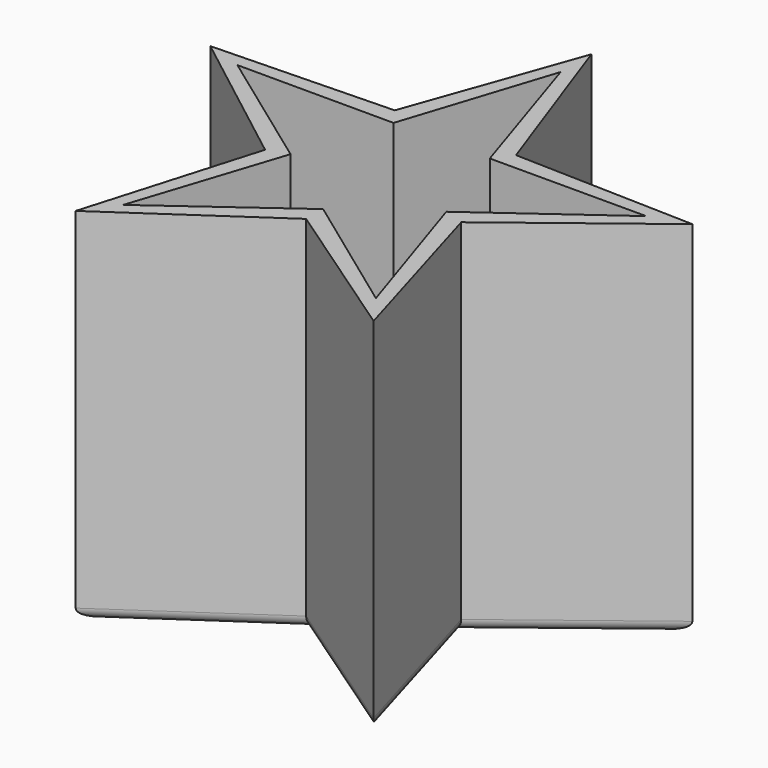
from build123d import *

# Parameters (mm, degrees)
F1_DEPTH = 50.8
F3_DEPTH = 10.16
F4_R     = 3.175


with BuildPart() as f1:
    # F0 (on Top) → F1 (new body, symmetric)
    with BuildSketch(Plane.XY):
        Polygon((13.549365, 18.649101), (0, 60.501583), (-13.549365, 18.649101), (-57.540424, 18.696017), (-21.923333, -7.123323), (-35.561938, -48.946809), (0, -23.051556), (35.561938, -48.946809), (21.923333, -7.123323), (57.540424, 18.696017), align=None)
        Polygon((67.841942, 22.043183), (17.062389, 23.484363), (0, 71.333239), (-17.062389, 23.484363), (-67.841942, 22.043183), (-27.607525, -8.970229), (-41.928626, -57.709802), (0, -29.028269), (41.928626, -57.709802), (27.607525, -8.970229), align=None)
        Polygon((-13.549365, 18.649101), (0, 60.501583), (13.549365, 18.649101), (57.540424, 18.696017), (21.923333, -7.123323), (35.561938, -48.946809), (0, -23.051556), (-35.561938, -48.946809), (-21.923333, -7.123323), (-57.540424, 18.696017), align=None, mode=Mode.SUBTRACT)
    extrude(amount=F1_DEPTH, both=True)

    # F2 (on face) → F3 (join)
    with BuildSketch(Plane(origin=(0, 0, -50.8), x_dir=(1, 0, 0), z_dir=(0, 0, -1))):
        Polygon((0, 23.051556), (-35.561938, 48.946809), (-21.923333, 7.123323), (-57.540424, -18.696017), (-13.549365, -18.649101), (0, -60.501583), (13.549365, -18.649101), (57.540424, -18.696017), (21.923333, 7.123323), (35.561938, 48.946809), align=None)
    extrude(amount=-F3_DEPTH)

    # F4
    f4_edges = [f1.edges().sort_by_distance(p)[0] for p in [
        (42.452165, 22.763773, -50.8),
        (8.531194, 47.408801, -50.8),
        (-8.531194, 47.408801, -50.8),
        (-42.452165, 22.763773, -50.8),
        (-47.724733, 6.536477, -50.8),
        (-34.768075, -33.340016, -50.8),
        (-20.964313, -43.369036, -50.8),
        (20.964313, -43.369036, -50.8),
        (34.768075, -33.340016, -50.8),
        (47.724733, 6.536477, -50.8),
    ]]
    fillet(f4_edges, radius=F4_R)


solid = f1.part
